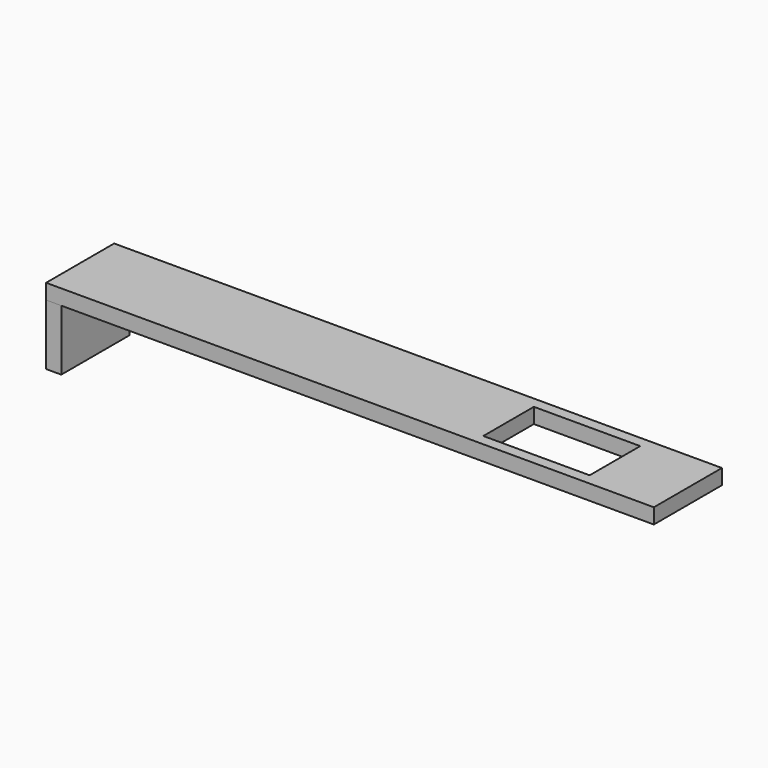
from build123d import *

# Parameters (mm, degrees)
F0_W     = 127
F0_H     = 3.175
F1_DEPTH = 17.78
F2_W     = 22.225
F2_H     = 13.208
F3_DEPTH = 25.4
F4_W     = 3.175
F4_H     = 17.78
F5_DEPTH = 12.7


with BuildPart() as f1:
    # F0 (on Front) → F1 (new body)
    with BuildSketch(Plane.XZ):
        with Locations((-0.668422, -7.899747)):
            Rectangle(F0_W, F0_H)
    extrude(amount=F1_DEPTH)

    # F2 (on face) → F3 (cut)
    with BuildSketch(Plane.XY.offset(-6.312247)):
        with Locations((36.479078, -8.89)):
            Rectangle(F2_W, F2_H)
    extrude(amount=-F3_DEPTH, mode=Mode.SUBTRACT)


with BuildPart() as f5:
    # F4 (on face) → F5 (new body)
    with BuildSketch(Plane(origin=(0, 0, -9.487247), x_dir=(1, 0, 0), z_dir=(0, 0, -1))):
        with Locations((-62.580922, 8.89)):
            Rectangle(F4_W, F4_H)
    extrude(amount=F5_DEPTH)


solid = Compound([f1.part, f5.part])
